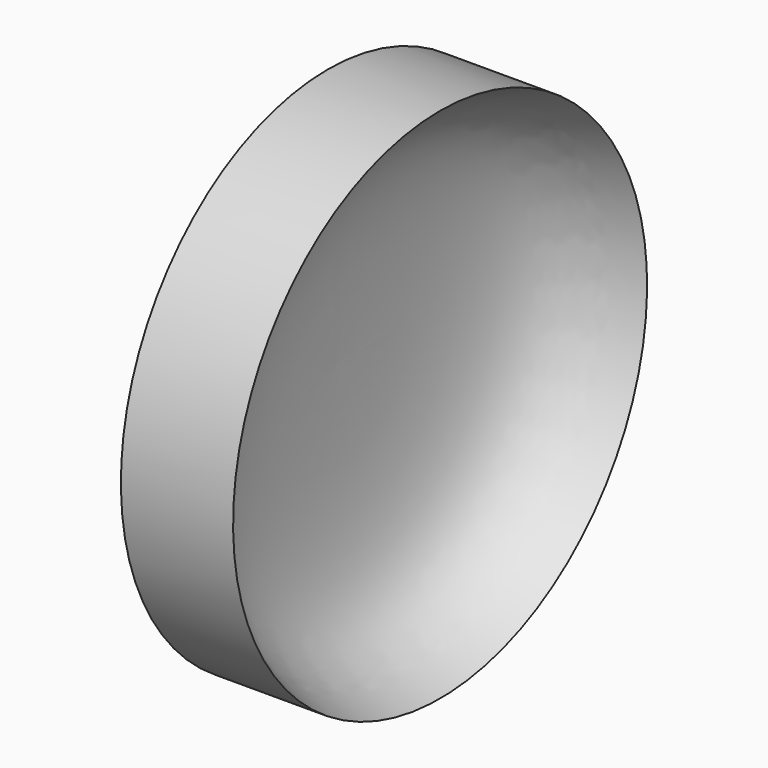
from build123d import *


with BuildPart() as f1:
    # F0 (on Front) → F1 (revolve)
    with BuildSketch(Plane.XZ):
        with BuildLine():
            Line((0, 26), (0, 0))
            Line((0, 0), (0.7238537073, 0))
            add(Edge.make_bspline(
                [(11.2725049257, 26), (8.3106691962, 24.7756759695), (0.942856207, 21.7300680026), (0.8058086269, 8.1318066185), (0.7238537073, 0)],
                knots=[0, 0, 0, 0, 0.4019965944, 1, 1, 1, 1], degree=3))
            Line((11.2725049257, 26), (0, 26))
        make_face()
    revolve(axis=Axis((0.3619268537, 0, 0), (1, 0, 0)))


solid = f1.part
